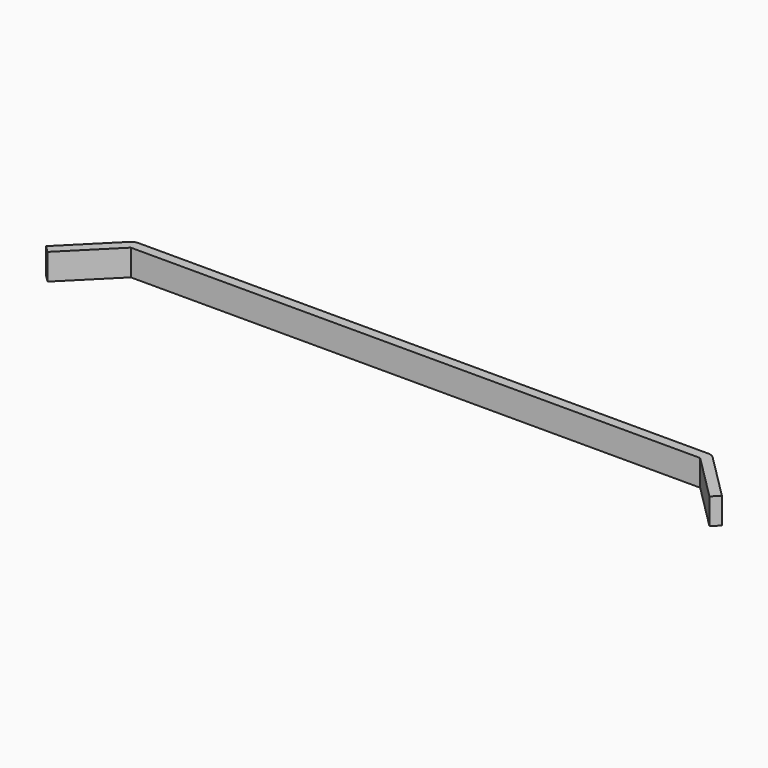
from build123d import *

# Parameters (mm, degrees)
PAD_DEPTH = 4


with BuildPart() as part:
    # Sketch → Pad (new body)
    with BuildSketch(Plane.XY):
        with BuildLine():
            Line((-43.5, 5.333736), (43.5, 5.333736))
            Line((43.5, 5.333736), (50.571068, -1.737332))
            Line((50.571068, -1.737332), (51.631728, -0.676671))
            Line((51.631728, -0.676671), (44.56066, 6.394396))
            ThreePointArc((44.56066, 6.394396), (44.074025, 6.719555), (43.5, 6.833736))
            Line((-43.5, 6.833736), (43.5, 6.833736))
            ThreePointArc((-43.5, 6.833736), (-44.074025, 6.719555), (-44.56066, 6.394396))
            Line((-44.56066, 6.394396), (-51.631728, -0.676671))
            Line((-51.631728, -0.676671), (-50.571068, -1.737332))
            Line((-50.571068, -1.737332), (-43.5, 5.333736))
        make_face()
    extrude(amount=PAD_DEPTH)


solid = part.part
